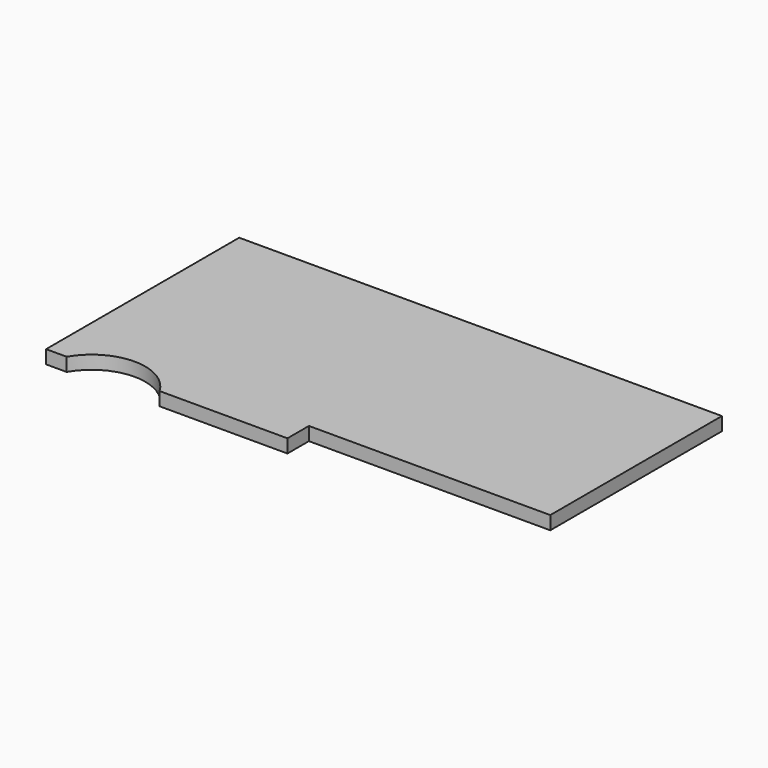
from build123d import *

# Parameters (mm, degrees)
F1_DEPTH = 3.175


with BuildPart() as f1:
    # F0 (on Top) → F1 (new body)
    with BuildSketch(Plane.XY):
        with BuildLine():
            Line((57.15, 25.4), (-57.15, 25.4))
            Line((-57.15, 25.4), (-57.15, -31.75))
            Line((-57.15, -31.75), (-52.273523, -31.75))
            ThreePointArc((-52.273523, -31.75), (-41.275, -25.4), (-30.276477, -31.75))
            Line((-30.276477, -31.75), (0, -31.75))
            Line((0, -31.75), (0, -25.4))
            Line((0, -25.4), (57.15, -25.4))
            Line((57.15, -25.4), (57.15, 25.4))
        make_face()
    extrude(amount=F1_DEPTH)


solid = f1.part
